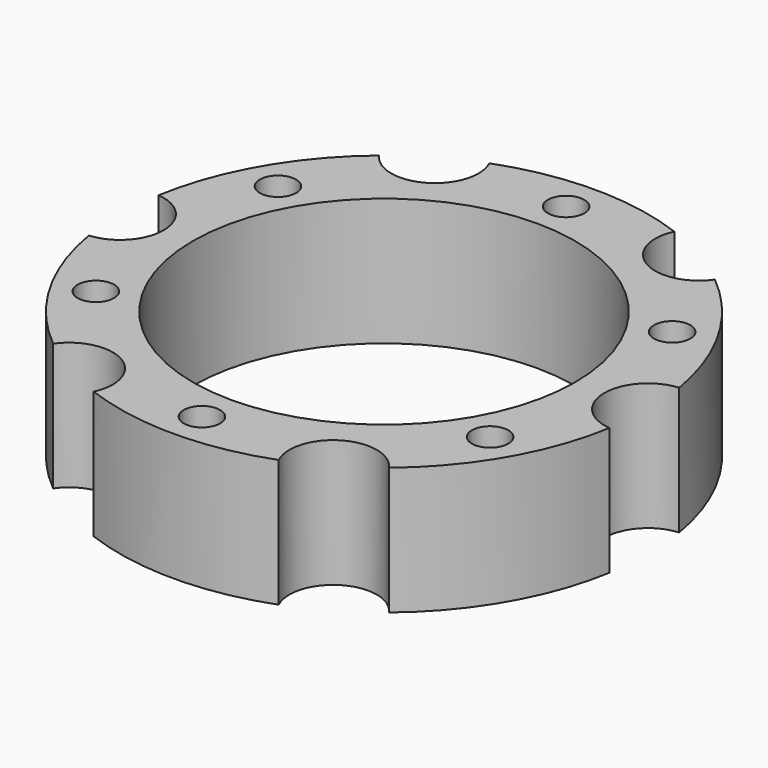
from build123d import *

# Parameters (mm, degrees)
F0_R     = 3.175
F0_R_2   = 33.3375
F1_DEPTH = 22.225


with BuildPart() as f1:
    # F0 (on Top) → F1 (new body)
    with BuildSketch(Plane.XY):
        with BuildLine():
            ThreePointArc((45.406879, -7.593861), (38.4175, 0), (45.406879, 7.593861))
            ThreePointArc((45.406879, 7.593861), (39.869645, 23.01875), (29.279916, 35.526581))
            ThreePointArc((29.279916, 35.526581), (19.20875, 33.270531), (16.126964, 43.120441))
            ThreePointArc((16.126964, 43.120441), (0, 46.0375), (-16.126964, 43.120441))
            ThreePointArc((-16.126964, 43.120441), (-15.583032, 41.535326), (-15.39875, 39.869645))
            ThreePointArc((-15.39875, 39.869645), (-20.743413, 32.597283), (-29.279916, 35.526581))
            ThreePointArc((-29.279916, 35.526581), (-39.869645, 23.01875), (-45.406879, 7.593861))
            ThreePointArc((-45.406879, 7.593861), (-40.43082, 5.160381), (-38.4175, 0))
            ThreePointArc((-38.4175, 0), (-40.43082, -5.160381), (-45.406879, -7.593861))
            ThreePointArc((-45.406879, -7.593861), (-39.869645, -23.01875), (-29.279916, -35.526581))
            ThreePointArc((-29.279916, -35.526581), (-20.743413, -32.597283), (-15.39875, -39.869645))
            ThreePointArc((-15.39875, -39.869645), (-15.583032, -41.535326), (-16.126964, -43.120441))
            ThreePointArc((-16.126964, -43.120441), (0, -46.0375), (16.126964, -43.120441))
            ThreePointArc((16.126964, -43.120441), (19.20875, -33.270531), (29.279916, -35.526581))
            ThreePointArc((29.279916, -35.526581), (39.869645, -23.01875), (45.406879, -7.593861))
        make_face()
        with Locations((-34.370383, -19.84375)):
            Circle(F0_R, mode=Mode.SUBTRACT)
        with Locations((0, -39.6875)):
            Circle(F0_R, mode=Mode.SUBTRACT)
        with Locations((34.370383, -19.84375)):
            Circle(F0_R, mode=Mode.SUBTRACT)
        with Locations((-34.370383, 19.84375)):
            Circle(F0_R, mode=Mode.SUBTRACT)
        Circle(F0_R_2, mode=Mode.SUBTRACT)
        with Locations((34.370383, 19.84375)):
            Circle(F0_R, mode=Mode.SUBTRACT)
        with Locations((0, 39.6875)):
            Circle(F0_R, mode=Mode.SUBTRACT)
    extrude(amount=F1_DEPTH)


solid = f1.part
